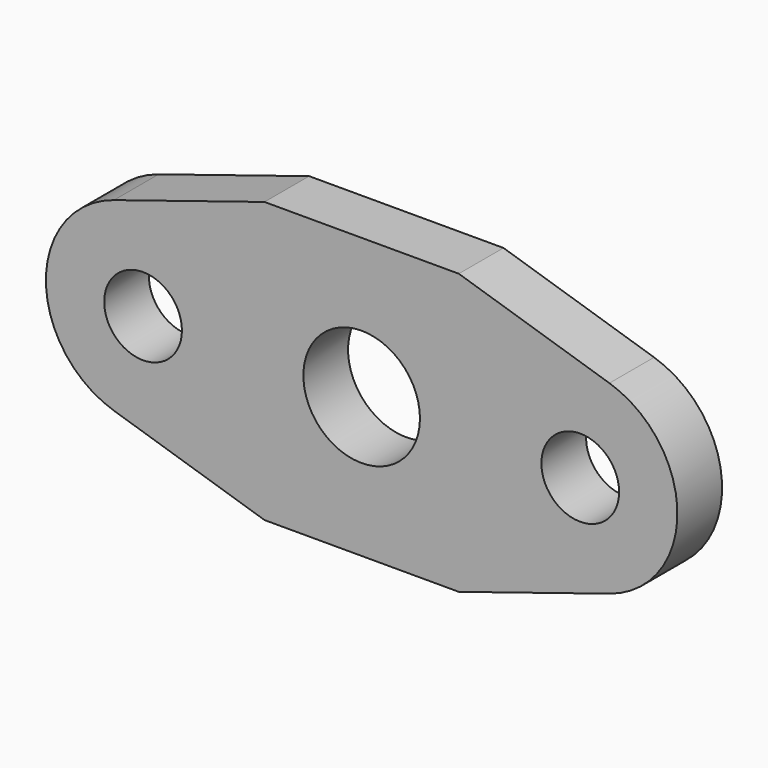
from build123d import *

# Parameters (mm, degrees)
F0_R     = 1.6
F0_R_2   = 2.4
F1_DEPTH = 2.3


with BuildPart() as f1:
    # F0 (on Front) → F1 (new body)
    with BuildSketch(Plane.XZ):
        with BuildLine():
            ThreePointArc((10.199683, -23.815857), (13, -20), (10.199683, -16.184143))
            Line((10.199683, -16.184143), (4, -14.235))
            Line((4, -14.235), (0, -14.235))
            Line((0, -14.235), (-4, -14.235))
            Line((-4, -14.235), (-10.199683, -16.184143))
            ThreePointArc((-10.199683, -16.184143), (-13, -20), (-10.199683, -23.815857))
            Line((-10.199683, -23.815857), (-4, -25.765))
            Line((-4, -25.765), (4, -25.765))
            Line((4, -25.765), (10.199683, -23.815857))
        make_face()
        with Locations((-9, -20)):
            Circle(F0_R, mode=Mode.SUBTRACT)
        with Locations((0, -20)):
            Circle(F0_R_2, mode=Mode.SUBTRACT)
        with Locations((9, -20)):
            Circle(F0_R, mode=Mode.SUBTRACT)
    extrude(amount=F1_DEPTH)


solid = f1.part
